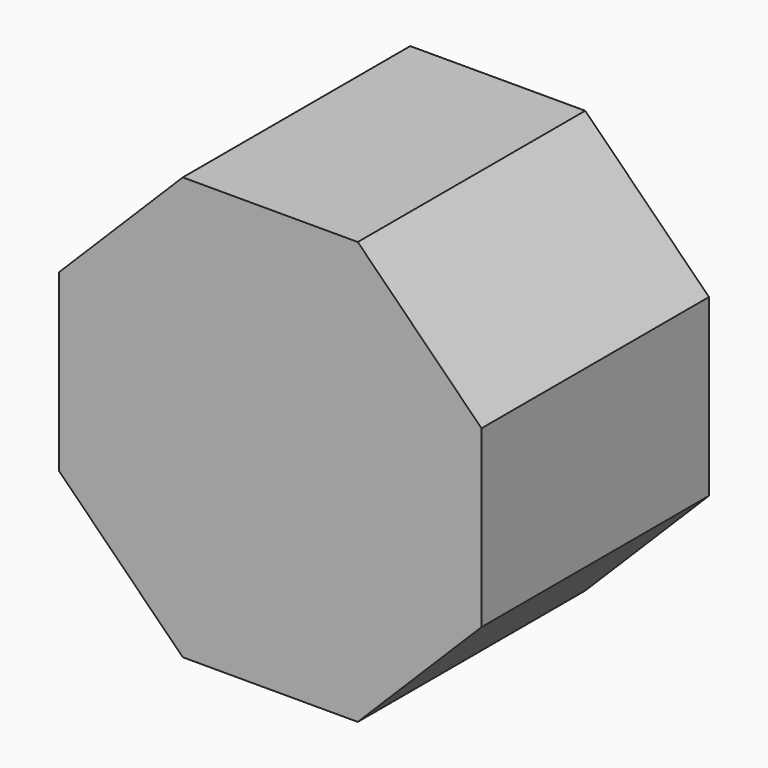
from build123d import *


with BuildPart() as f3:
    # F0 (on Front) → F3 section 0
    with BuildSketch(Plane.XZ):
        Polygon((15.388714, 37.151642), (-15.388714, 37.151642), (-37.151642, 15.388714), (-37.151642, -15.388714), (-15.388714, -37.151642), (15.388714, -37.151642), (37.151642, -15.388714), (37.151642, 15.388714), align=None)
    # F2 (on offset) → F3 section 1
    with BuildSketch(Plane.XZ.offset(50)):
        Polygon((15.388714, 37.151642), (-15.388714, 37.151642), (-37.151642, 15.388714), (-37.151642, -15.388714), (-15.388714, -37.151642), (15.388714, -37.151642), (37.151642, -15.388714), (37.151642, 15.388714), align=None)
    loft()


solid = f3.part
